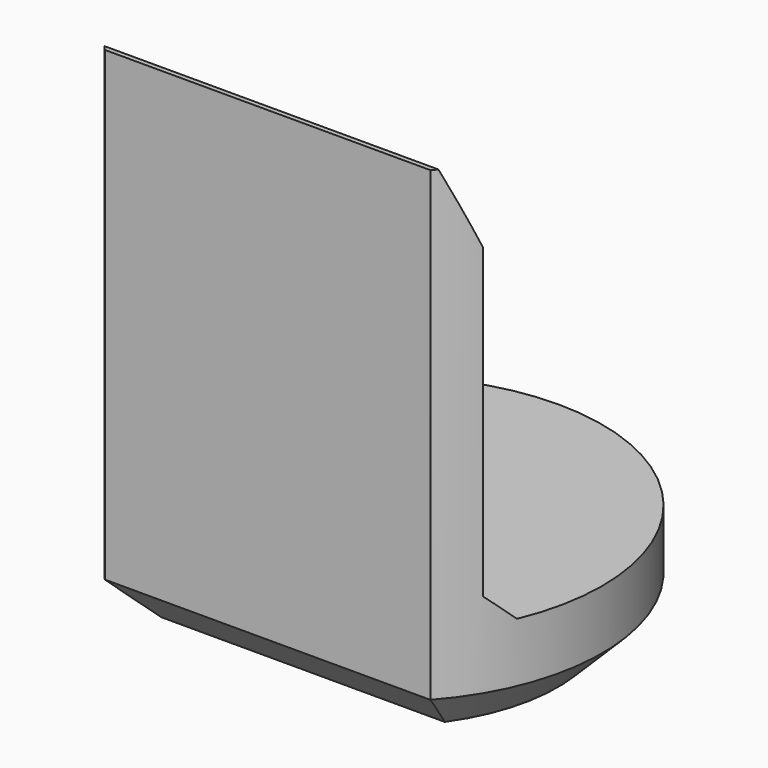
from build123d import *

# Parameters (mm, degrees)
PAD007_DEPTH         = 6.9
POCKET005_DEPTH      = 2.951
POCKET005_DEPTH_BACK = 2.951
CHAMFER008_SIZE      = 0.6


with BuildPart() as part:
    # Sketch018 → Pad007 (new body)
    with BuildSketch(Plane.XY):
        with BuildLine():
            ThreePointArc((2.2, -1.9653244007), (0, 2.95), (-2.2, -1.9653244007))
            Line((-2.2, -1.9653244007), (2.2, -1.9653244007))
        make_face()
    extrude(amount=PAD007_DEPTH)

    # Sketch019 → Pocket005 (cut, two sides)
    with BuildSketch(Plane.YZ) as pocket005_sk:
        Polygon((-1.9, 6.9), (-1.5, 5.9), (-1.5, 1.75), (-1.15, 1.4), (5, 1.4), (5, 6.9), align=None)
    extrude(amount=-POCKET005_DEPTH, mode=Mode.SUBTRACT)
    extrude(pocket005_sk.sketch, amount=POCKET005_DEPTH_BACK, mode=Mode.SUBTRACT)

    # Chamfer008
    chamfer008_edges = [part.edges().sort_by_distance(p)[0] for p in [
        (0, 2.95, 0),
        (0, -1.965324, 0),
    ]]
    chamfer(chamfer008_edges, length=CHAMFER008_SIZE)


with BuildPart() as part_1:
    # Body063 placement: moved
    add(part.part.moved(Location((0, 78, 0))))


with BuildPart() as part_2:
    # Clone059 placement: moved
    add(part_1.part.moved(Location((0, -78, 0))))


with BuildPart() as part_3:
    # Body065 placement: moved
    add(part_2.part.moved(Location((0, 90, 0))))


solid = part_3.part
